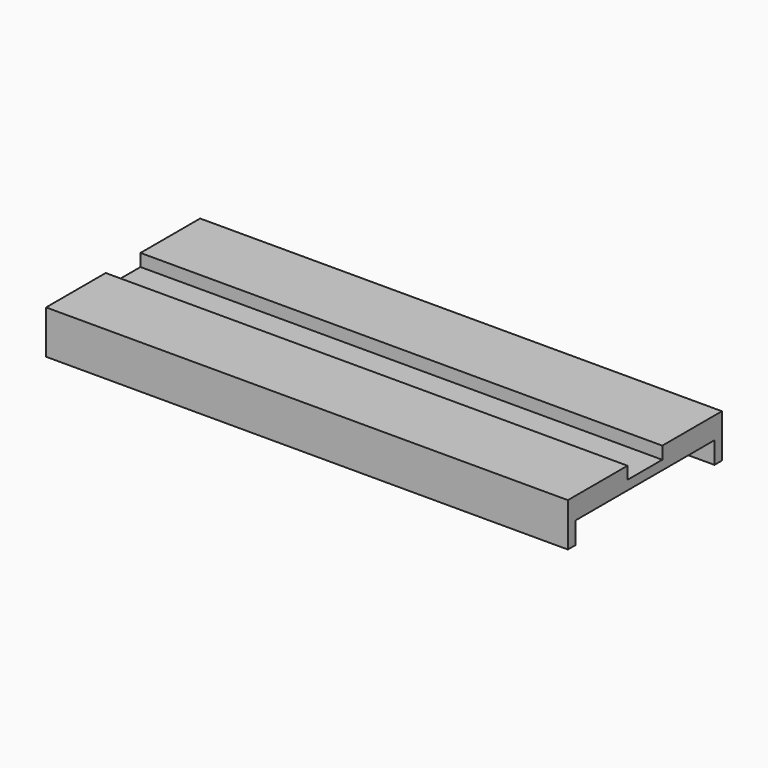
from build123d import *

# Parameters (mm, degrees)
F0_W     = 177.8
F0_H     = 38.1
F1_DEPTH = 2133.6


with BuildPart() as f1:
    # F0 (on Right) → F1 (new body)
    with BuildSketch(Plane.YZ):
        Polygon((0, 38.1), (0, 0), (266.7, 0), (266.7, 88.9), (0, 88.9), align=None)
        with Locations((-88.9, 19.05)):
            Rectangle(F0_W, F0_H)
        Polygon((266.7, 88.9), (266.7, 0), (266.7, -88.9), (304.8, -88.9), (304.8, 88.9), align=None)
        Polygon((-444.5, 0), (-177.8, 0), (-177.8, 38.1), (-177.8, 88.9), (-444.5, 88.9), align=None)
        Polygon((-444.5, -88.9), (-444.5, 0), (-444.5, 88.9), (-482.6, 88.9), (-482.6, -88.9), align=None)
    extrude(amount=F1_DEPTH)


solid = f1.part
